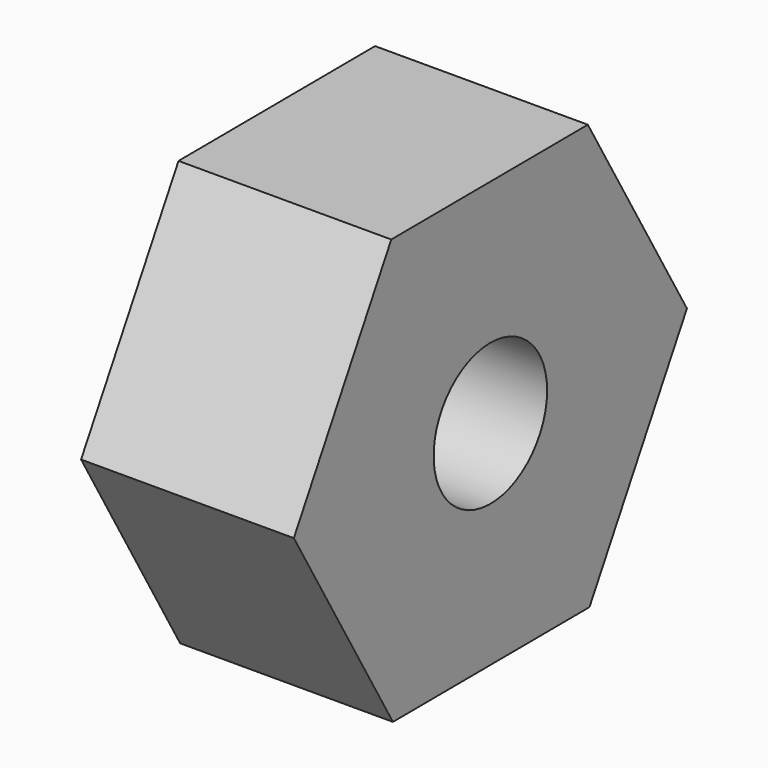
from build123d import *

# Parameters (mm, degrees)
F0_R     = 1.5875
F1_DEPTH = 4.7625


with BuildPart() as f1:
    # F0 (on Right) → F1 (new body)
    with BuildSketch(Plane.YZ):
        Polygon((4.271786, 5.695578), (7.044719, 0.946532), (12.54398, 0.973439), (15.270308, 5.749393), (12.497375, 10.498439), (6.998114, 10.471532), align=None)
        with Locations((9.771047, 5.722486)):
            Circle(F0_R, mode=Mode.SUBTRACT)
    extrude(amount=F1_DEPTH)


solid = f1.part
